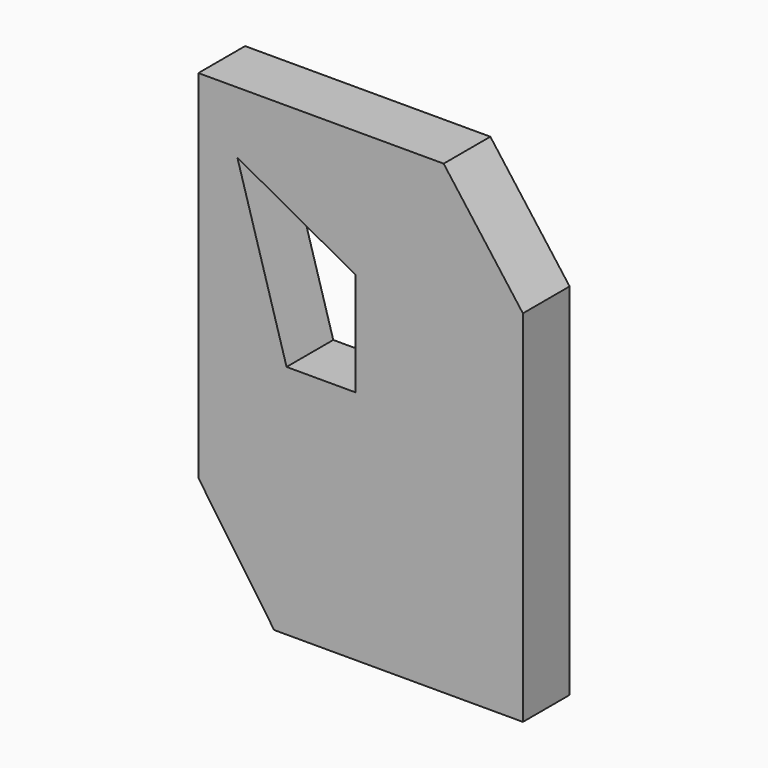
from build123d import *

# Parameters (mm, degrees)
F0_W     = 106.714278
F0_H     = 155.109674
F1_DEPTH = 25.4


with BuildPart() as f1:
    # F0 (on Front) → F1 (new body)
    with BuildSketch(Plane.XZ):
        Polygon((87.841675, -47.520965), (53.357139, 0), (-53.357139, 0), (-20.406917, -47.520965), align=None)
        with Locations((0, 77.554837)):
            Rectangle(F0_W, F0_H)
        Polygon((14.997154, 55.01838), (-14.997154, 55.01838), (-36.390718, 128.240824), (14.997154, 100.091293), align=None, mode=Mode.SUBTRACT)
        Polygon((53.357139, 155.109674), (53.357139, 0), (87.841675, -47.520965), (87.841675, 108.981639), align=None)
    extrude(amount=F1_DEPTH)


solid = f1.part
